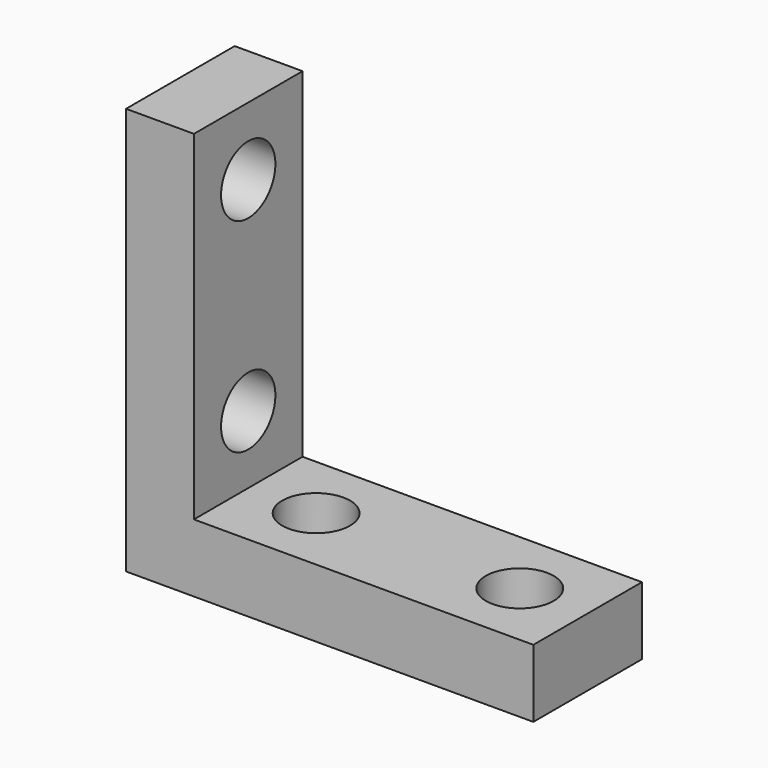
from build123d import *

# Parameters (mm, degrees)
SKETCH_W     = 15
SKETCH_H     = 6
SKETCH_R     = 1.5
PAD_DEPTH    = 3
SKETCH001_W  = 6
SKETCH001_H  = 18
SKETCH001_R  = 1.5
PAD001_DEPTH = 3


with BuildPart() as part:
    # Sketch → Pad (new body)
    with BuildSketch(Plane.XY):
        with Locations((7.5, 3)):
            Rectangle(SKETCH_W, SKETCH_H)
        with Locations((3, 3)):
            Circle(SKETCH_R, mode=Mode.SUBTRACT)
        with Locations((12, 3)):
            Circle(SKETCH_R, mode=Mode.SUBTRACT)
    extrude(amount=PAD_DEPTH)

    # Sketch001 → Pad001 (new body)
    with BuildSketch(Plane(origin=(0, 0, 0), x_dir=(0, -1, 0), z_dir=(-1, 0, 0))):
        with Locations((-3, 9)):
            Rectangle(SKETCH001_W, SKETCH001_H)
        with Locations((-3, 6)):
            Circle(SKETCH001_R, mode=Mode.SUBTRACT)
        with Locations((-3, 15)):
            Circle(SKETCH001_R, mode=Mode.SUBTRACT)
    extrude(amount=PAD001_DEPTH)


solid = part.part
